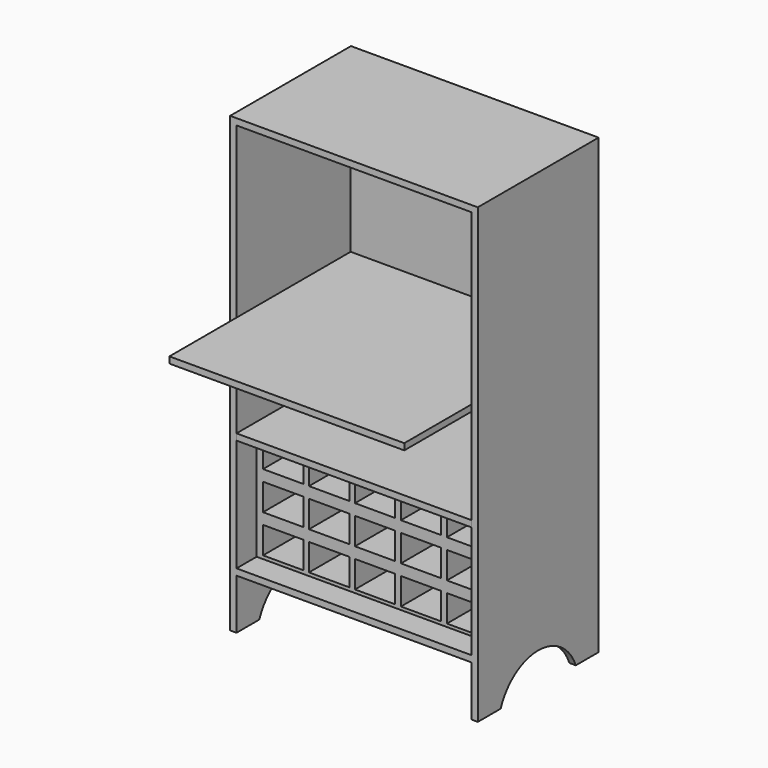
from build123d import *

# Parameters (mm, degrees)
F0_W      = 700
F0_H      = 19
F1_DEPTH  = 450
F2_W      = 450
F2_H      = 19
F3_DEPTH  = 700
F4_W      = 698.6836850643
F4_H      = 335.1980355978
F5_DEPTH  = 375
F6_W      = 120
F6_H      = 80
F7_DEPTH  = 300
F9_DEPTH  = 738.001
F10_W     = 700
F10_H     = 504.2535300255
F11_DEPTH = 25
F13_DEPTH = 25
F15_DEPTH = 700
F16_W     = 700
F16_H     = 19
F17_DEPTH = 250


with BuildPart() as f1:
    # F0 (on Front) → F1 (new body)
    with BuildSketch(Plane.XZ):
        Polygon((-369, 1350), (-369, 0), (-350, 0), (-350, 1331), (-350, 1350), align=None)
        with Locations((0, 1340.5)):
            Rectangle(F0_W, F0_H)
        Polygon((350, 1350), (350, 1331), (350, 0), (369, 0), (369, 1350), align=None)
    extrude(amount=F1_DEPTH)

    # F2 (on face) → F3 (join, through all)
    with BuildSketch(Plane.YZ.offset(-350)):
        with Locations((-225, 817.2464699745)):
            Rectangle(F2_W, F2_H)
        with Locations((-225, 159.5)):
            Rectangle(F2_W, F2_H)
    extrude(amount=F3_DEPTH)

    # F4 (on face) → F5 (join)
    with BuildSketch(Plane(origin=(0, 0, 0), x_dir=(-1, 0, 0), z_dir=(0, 1, 0))):
        with Locations((0.6581574678, 336.5990177989)):
            Rectangle(F4_W, F4_H)
    extrude(amount=-F5_DEPTH)

    # F6 (on face) → F7 (cut)
    with BuildSketch(Plane.XZ.offset(375)):
        with Locations((-271, 445.1980355978)):
            Rectangle(F6_W, F6_H)
        with Locations((-134.0001210052, 445.0159493365)):
            Rectangle(F6_W, F6_H)
        with Locations((2.9997579896, 444.8338630752)):
            Rectangle(F6_W, F6_H)
        with Locations((139.9996369844, 444.6517768139)):
            Rectangle(F6_W, F6_H)
        with Locations((276.9995159793, 444.4696905526)):
            Rectangle(F6_W, F6_H)
        with Locations((-271, 332)):
            Rectangle(F6_W, F6_H)
        with Locations((-134.0001210052, 331.8179137387)):
            Rectangle(F6_W, F6_H)
        with Locations((2.9997579896, 331.6358274774)):
            Rectangle(F6_W, F6_H)
        with Locations((139.9996369844, 331.4537412161)):
            Rectangle(F6_W, F6_H)
        with Locations((276.9995159793, 331.2716549548)):
            Rectangle(F6_W, F6_H)
        with Locations((-271, 218.8019644022)):
            Rectangle(F6_W, F6_H)
        with Locations((-134.0001210052, 218.6198781409)):
            Rectangle(F6_W, F6_H)
        with Locations((2.9997579896, 218.4377918796)):
            Rectangle(F6_W, F6_H)
        with Locations((139.9996369844, 218.2557056183)):
            Rectangle(F6_W, F6_H)
        with Locations((276.9995159793, 218.073619357)):
            Rectangle(F6_W, F6_H)
    extrude(amount=-F7_DEPTH, mode=Mode.SUBTRACT)

    # F8 (on face) → F9 (cut, through all)
    with BuildSketch(Plane.YZ.offset(369)):
        with BuildLine():
            Line((-365, 0), (-85, 0))
            ThreePointArc((-85, 0), (-225, 96.1483519287), (-365, 0))
        make_face()
    extrude(amount=-F9_DEPTH, mode=Mode.SUBTRACT)

    # F16 (on face) → F17 (join)
    with BuildSketch(Plane.XZ.offset(450)):
        with Locations((0, 817.2464699745)):
            Rectangle(F16_W, F16_H)
    extrude(amount=F17_DEPTH)


with BuildPart() as f11:
    # F10 (on face) → F11 (new body)
    with BuildSketch(Plane(origin=(0, 0, 0), x_dir=(-1, 0, 0), z_dir=(0, 1, 0))):
        with Locations((0, 1078.8732349873)):
            Rectangle(F10_W, F10_H)
    extrude(amount=-F11_DEPTH)


with BuildPart() as f13:
    # F12 (on face) → F13 (new body)
    with BuildSketch(Plane(origin=(0, 0, 0), x_dir=(-1, 0, 0), z_dir=(0, 1, 0))):
        Polygon((350, 504.1980355978), (350, 807.7464699745), (-350, 807.7464699745), (-350, 169), (-348.6836850643, 169), (-348.6836850643, 504.1980355978), align=None)
    extrude(amount=-F13_DEPTH)


with BuildPart() as f15:
    # F14 (on face) → F15 (new body, through all)
    with BuildSketch(Plane.YZ.offset(-350)):
        Polygon((0, 504.1980355978), (0, 523.1980355978), (-450, 523.1980355978), (-450, 504.1980355978), (-375, 504.1980355978), align=None)
    extrude(amount=F15_DEPTH)


solid = Compound([f1.part, f11.part, f13.part, f15.part])
